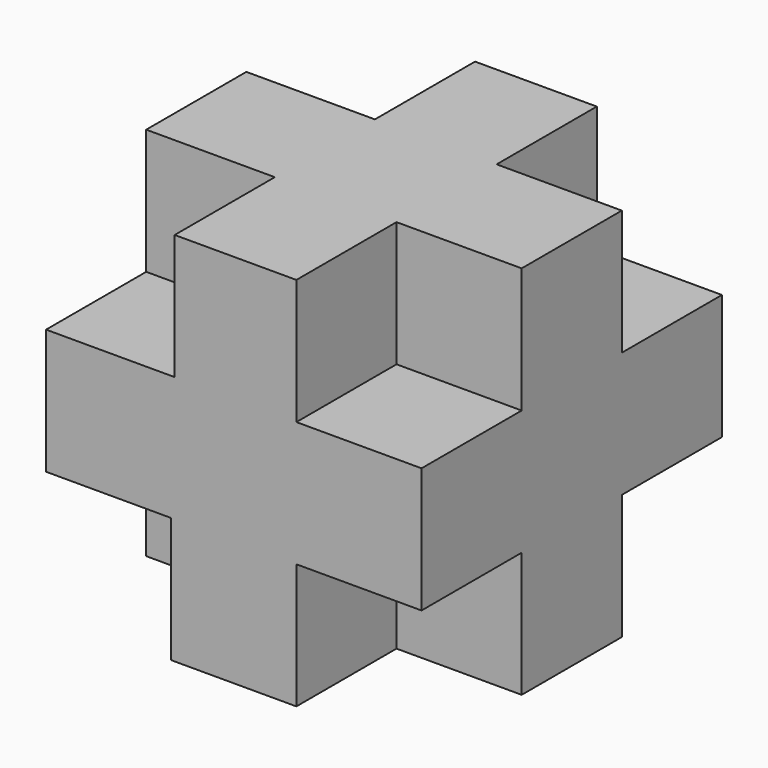
from build123d import *

# Parameters (mm, degrees)
F0_W     = 60
F0_H     = 60
F1_DEPTH = 60
F2_W     = 20.549892
F2_H     = 20
F2_W_2   = 20
F3_DEPTH = 20
F4_W     = 20
F4_H     = 20
F5_DEPTH = 20


with BuildPart() as f1:
    # F0 (on Top) → F1 (new body)
    with BuildSketch(Plane.XY):
        Rectangle(F0_W, F0_H)
    extrude(amount=F1_DEPTH)

    # F2 (on face) → F3 (cut)
    with BuildSketch(Plane.XY.offset(60)):
        with Locations((-19.725054, 20)):
            Rectangle(F2_W, F2_H)
        with Locations((20, 20)):
            Rectangle(F2_W_2, F2_H)
        with Locations((20, -20)):
            Rectangle(F2_W_2, F2_H)
        with Locations((-19.725054, -20)):
            Rectangle(F2_W, F2_H)
    extrude(amount=-F3_DEPTH, mode=Mode.SUBTRACT)

    # F4 (on face) → F5 (cut)
    with BuildSketch(Plane(origin=(0, 0, 0), x_dir=(1, 0, 0), z_dir=(0, 0, -1))):
        with Locations((20, -20)):
            Rectangle(F4_W, F4_H)
        with Locations((-20, -20)):
            Rectangle(F4_W, F4_H)
        with Locations((-20, 20)):
            Rectangle(F4_W, F4_H)
        with Locations((20, 20)):
            Rectangle(F4_W, F4_H)
    extrude(amount=-F5_DEPTH, mode=Mode.SUBTRACT)


solid = f1.part
